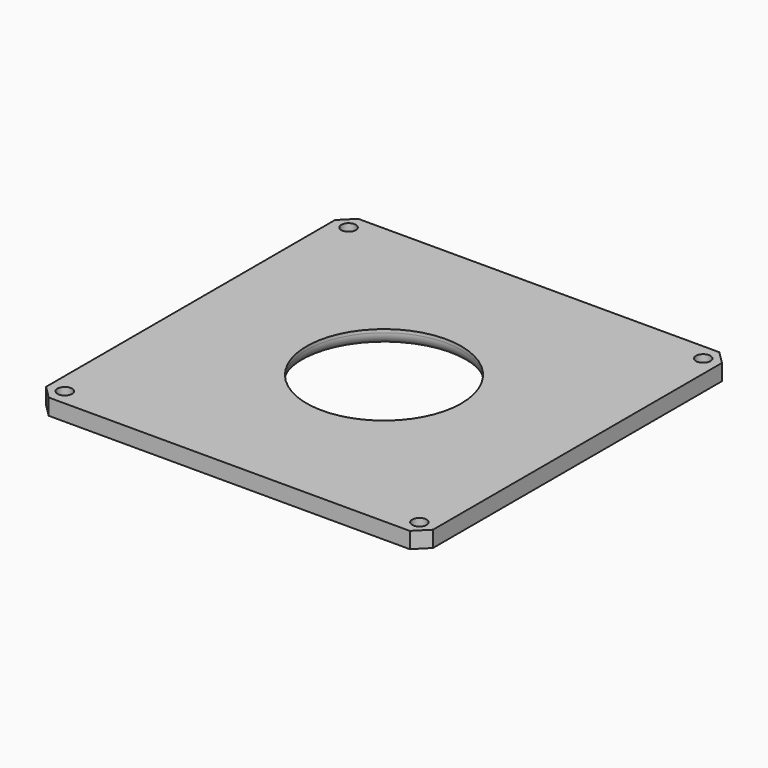
from build123d import *

# Parameters (mm, degrees)
SKETCH_W     = 120
SKETCH_H     = 120
SKETCH_R     = 2.25
SKETCH_R_2   = 24
PAD_DEPTH    = 5
FILLET_R     = 4
CHAMFER_SIZE = 4


with BuildPart() as part:
    # Sketch → Pad (new body)
    with BuildSketch(Plane.XY):
        Rectangle(SKETCH_W, SKETCH_H)
        with Locations((-55, 55)):
            Circle(SKETCH_R, mode=Mode.SUBTRACT)
        with Locations((55, 55)):
            Circle(SKETCH_R, mode=Mode.SUBTRACT)
        with Locations((55, -55)):
            Circle(SKETCH_R, mode=Mode.SUBTRACT)
        with Locations((-55, -55)):
            Circle(SKETCH_R, mode=Mode.SUBTRACT)
        Circle(SKETCH_R_2, mode=Mode.SUBTRACT)
    extrude(amount=PAD_DEPTH)

    # Fillet
    fillet_edges = [part.edges().sort_by_distance(p)[0] for p in [
        (-24, 0, 0),
    ]]
    fillet(fillet_edges, radius=FILLET_R)

    # Chamfer
    chamfer_edges = [part.edges().sort_by_distance(p)[0] for p in [
        (-60, -60, 2.5),
        (60, -60, 2.5),
        (60, 60, 2.5),
        (-60, 60, 2.5),
    ]]
    chamfer(chamfer_edges, length=CHAMFER_SIZE)


solid = part.part
